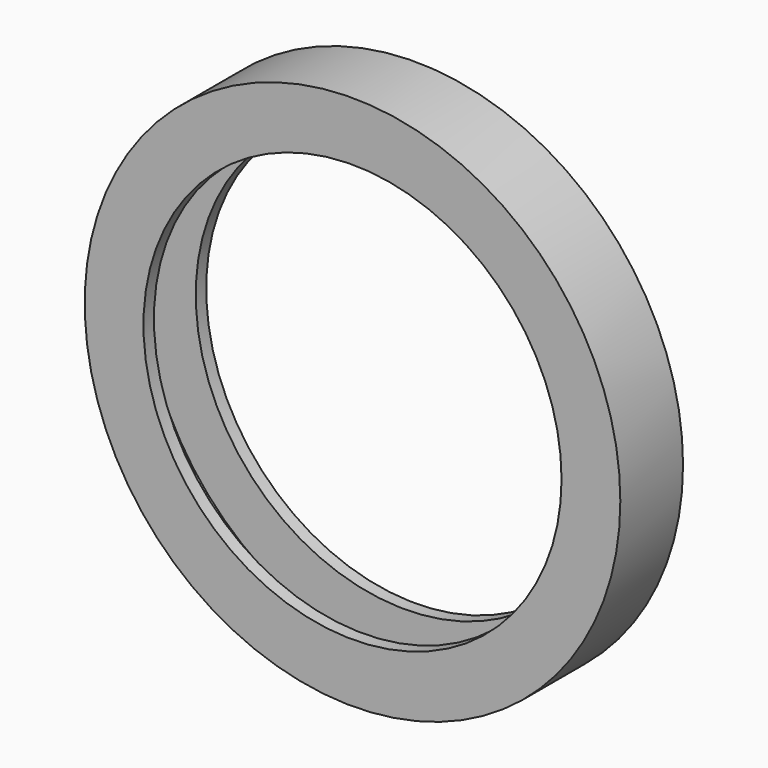
from build123d import *

# Parameters (mm, degrees)
F0_R     = 20.5
F0_R_2   = 20
F1_DEPTH = 6
F0_R_3   = 16
F2_DEPTH = 1
F3_R     = 20
F3_R_2   = 16
F4_DEPTH = 1


with BuildPart() as f1:
    # F0 (on Front) → F1 (new body)
    with BuildSketch(Plane.XZ):
        Circle(F0_R)
        Circle(F0_R_2, mode=Mode.SUBTRACT)
    extrude(amount=F1_DEPTH)

    # F0 (on Front) → F2 (join)
    with BuildSketch(Plane.XZ):
        Circle(F0_R_2)
        Circle(F0_R_3, mode=Mode.SUBTRACT)
    extrude(amount=F2_DEPTH)

    # F3 (on face) → F4 (join)
    with BuildSketch(Plane.XZ.offset(6)):
        Circle(F3_R)
        Circle(F3_R_2, mode=Mode.SUBTRACT)
    extrude(amount=-F4_DEPTH)


solid = f1.part
